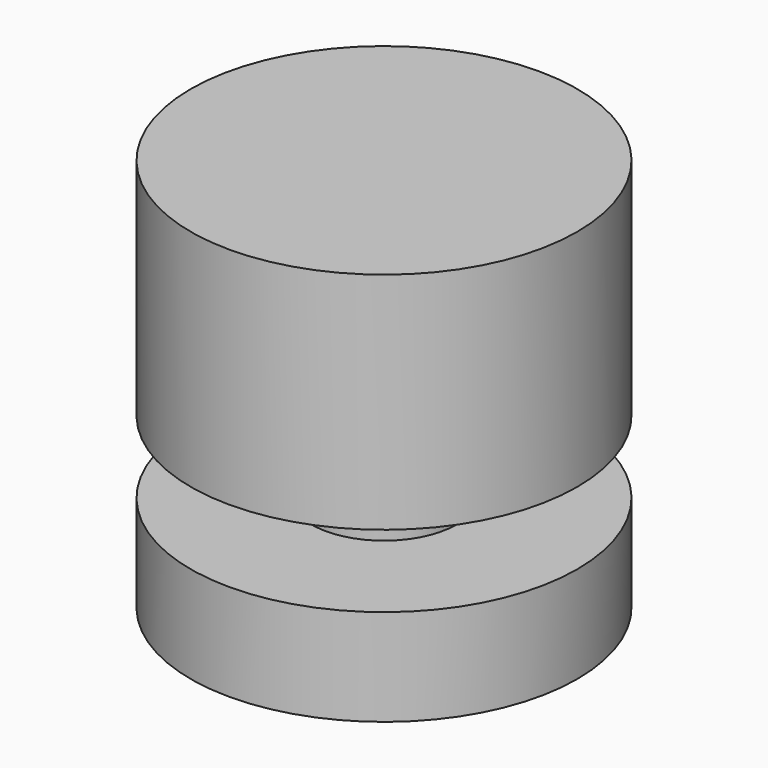
from build123d import *


with BuildPart() as f1:
    # F0 (on Front) → F1 (revolve)
    with BuildSketch(Plane.XZ):
        Polygon((0, 2), (0, 0), (1.5, 0), (4, 0), (4, 2), (1.5, 2), (1.5, 4.366025), (1.5, 5.232051), (1.5, 6.098076), (0, 6.098076), align=None)
        Polygon((2, 5.232051), (1.5, 6.098076), (1.5, 5.232051), (1.75, 5.232051), align=None)
        Polygon((2, 4.366025), (1.5, 5.232051), (1.5, 4.366025), (1.75, 4.366025), align=None)
    revolve(axis=Axis((0, 0, 3.049038), (0, 0, 1)))


with BuildPart() as f2:
    # F0 (on Front) → F2 (revolve)
    with BuildSketch(Plane.XZ):
        Polygon((2.25, 5.232051), (2, 5.232051), (1.75, 5.232051), (2.25, 4.366025), (2, 4.366025), (1.75, 4.366025), (2.25, 3.5), (4, 3.5), (4, 8.148076), (0, 8.148076), (0, 6.148076), (2.25, 6.148076), align=None)
    revolve(axis=Axis((0, 0, 7.148076), (0, 0, -1)))


solid = Compound([f1.part, f2.part])
